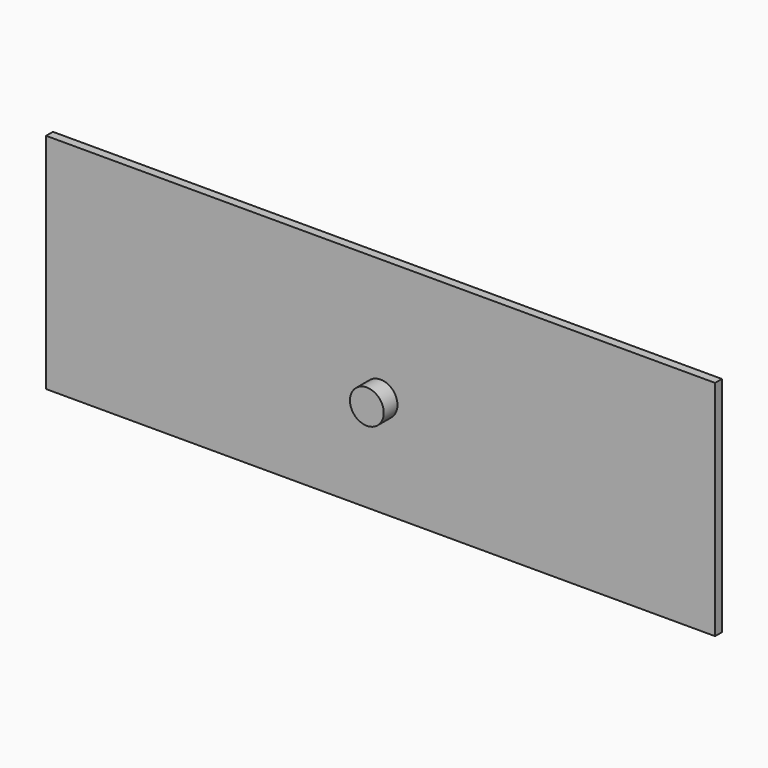
from build123d import *

# Parameters (mm, degrees)
F0_R     = 9.85
F1_DEPTH = 5
F2_DEPTH = 15


with BuildPart() as f1:
    # F0 (on Front) → F1 (new body)
    with BuildSketch(Plane.XZ):
        Polygon((195, 71.530835), (0, 71.530835), (-195, 71.530835), (-195, -58.469165), (195, -58.469165), align=None)
        Circle(F0_R, mode=Mode.SUBTRACT)
    extrude(amount=F1_DEPTH)

    # F0 (on Front) → F2 (join)
    with BuildSketch(Plane.XZ):
        Circle(F0_R)
    extrude(amount=F2_DEPTH)


solid = f1.part
